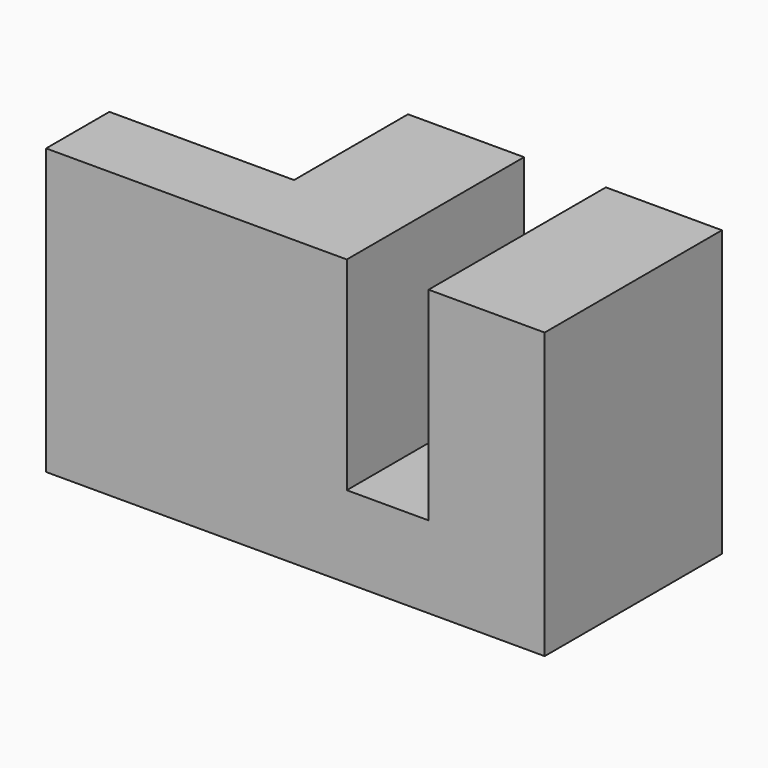
from build123d import *

# Parameters (mm, degrees)
PAD001_DEPTH = 8.4
SKETCH001_W  = 7
SKETCH001_H  = 10.8
PAD_DEPTH    = 3


with BuildPart() as part:
    # Sketch → Pad001 (new body)
    with BuildSketch(Plane.XZ):
        Polygon((0, 0), (0, 10.8), (4.4, 10.8), (4.4, 3.1), (7.5, 3.1), (7.5, 10.8), (11.9, 10.8), (11.9, 0), align=None)
    extrude(amount=-PAD001_DEPTH)

    # Sketch001 → Pad (join)
    with BuildSketch(Plane.XZ):
        with Locations((-3.5, 5.4)):
            Rectangle(SKETCH001_W, SKETCH001_H)
    extrude(amount=-PAD_DEPTH)


solid = part.part
